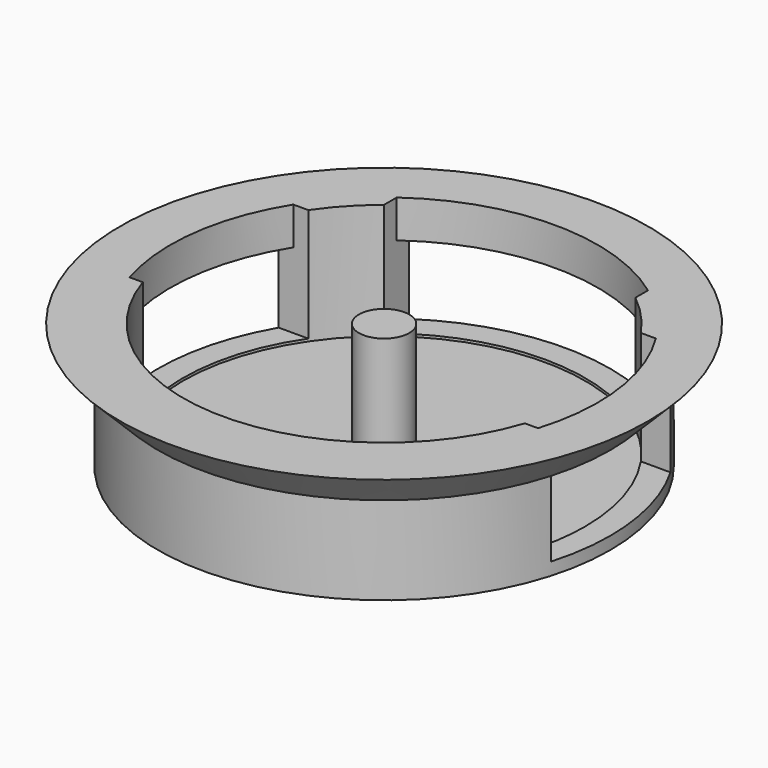
from build123d import *

# Parameters (mm, degrees)
BOX_W             = 20
BOX_H             = 14
BOX_DEPTH         = 10
BOX001_W          = 44
BOX001_H          = 14
BOX001_DEPTH      = 10
CYLINDER_R        = 18
CYLINDER_DEPTH    = 0.8
CYLINDER002_R     = 16
CYLINDER002_DEPTH = 11
CYLINDER001_R     = 18
CYLINDER001_DEPTH = 10
CYLINDER003_R     = 17
CYLINDER003_DEPTH = 5
CYLINDER004_R     = 2
CYLINDER004_DEPTH = 10


with BuildPart() as cube:
    # Box → Box (new body)
    with BuildSketch(Plane(origin=(-10, 8, 1), x_dir=(1, 0, 0), z_dir=(0, 0, 1))):
        with Locations((10, 7)):
            Rectangle(BOX_W, BOX_H)
    extrude(amount=BOX_DEPTH)


with BuildPart() as cuts:
    # Box001 → Box001 (new body)
    with BuildSketch(Plane(origin=(-22, -5, 1), x_dir=(1, 0, 0), z_dir=(0, 0, 1))):
        with Locations((22, 7)):
            Rectangle(BOX001_W, BOX001_H)
    extrude(amount=BOX001_DEPTH)

    # Fusion: union Cube
    add(cube.part)


with BuildPart() as top:
    # Cylinder → Cylinder (new body)
    with BuildSketch(Plane.XY):
        Circle(CYLINDER_R)
    extrude(amount=CYLINDER_DEPTH)


with BuildPart() as hole:
    # Cylinder002 → Cylinder002 (new body)
    with BuildSketch(Plane.XY):
        Circle(CYLINDER002_R)
    extrude(amount=CYLINDER002_DEPTH)


with BuildPart() as cut001:
    # Cylinder001 → Cylinder001 (new body)
    with BuildSketch(Plane.XY):
        Circle(CYLINDER001_R)
    extrude(amount=CYLINDER001_DEPTH)

    # Cut: cut hole
    add(hole.part, mode=Mode.SUBTRACT)

    # Fusion001: union top
    add(top.part)

    # Cut001: cut cuts
    add(cuts.part, mode=Mode.SUBTRACT)


with BuildPart() as hole001:
    # Cylinder003 → Cylinder003 (new body)
    with BuildSketch(Plane.XY.offset(7)):
        Circle(CYLINDER003_R)
    extrude(amount=CYLINDER003_DEPTH)


with BuildPart() as cut002:
    # Cone → Cone (revolve)
    with BuildSketch(Plane(origin=(0, 0, 7), x_dir=(1, 0, 0), z_dir=(0, -1, 0))):
        Polygon((0, 0), (18, 0), (21, 3), (0, 3), align=None)
    revolve(axis=Axis((0, 0, 7), (0, 0, 1)))

    # Cut002: cut hole001
    add(hole001.part, mode=Mode.SUBTRACT)


with BuildPart() as fusion002:
    # Cylinder004 → Cylinder004 (new body)
    with BuildSketch(Plane.XY):
        Circle(CYLINDER004_R)
    extrude(amount=CYLINDER004_DEPTH)

    # Fusion002: union Cut001, Cut002
    add(cut001.part)
    add(cut002.part)


solid = fusion002.part
